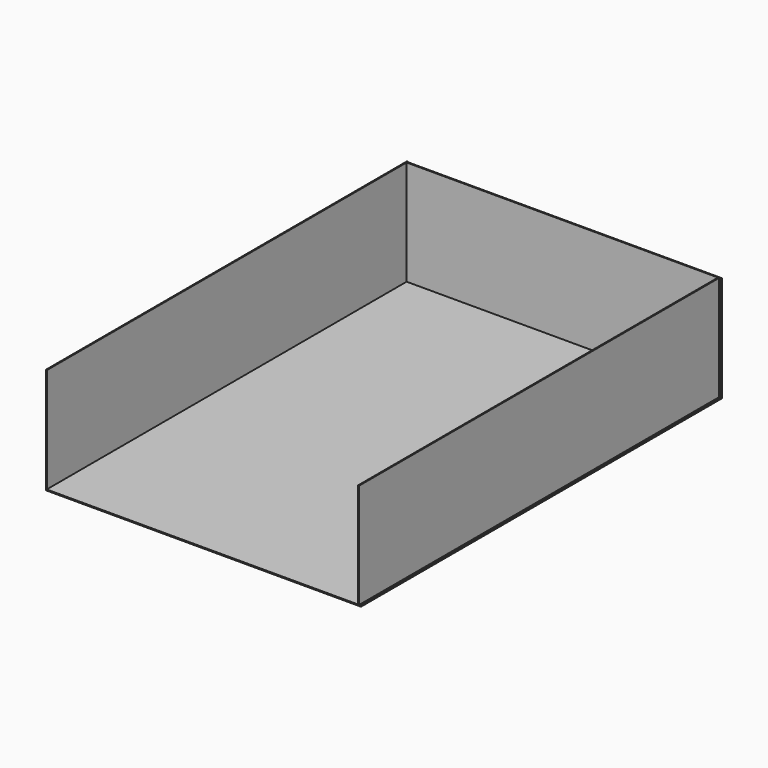
from build123d import *

# Parameters (mm, degrees)
F0_W     = 300
F0_H     = 430
F1_DEPTH = 1
F2_W     = 300
F2_H     = 1
F3_DEPTH = 100
F4_W     = 1
F4_H     = 430
F5_DEPTH = 100
F6_W     = 1
F6_H     = 430
F7_DEPTH = 100


with BuildPart() as f1:
    # F0 (on Top) → F1 (new body)
    with BuildSketch(Plane.XY):
        Rectangle(F0_W, F0_H)
    extrude(amount=-F1_DEPTH)

    # F2 (on Top) → F3 (join)
    with BuildSketch(Plane.XY):
        with Locations((0.038886, 214.259856)):
            Rectangle(F2_W, F2_H)
    extrude(amount=F3_DEPTH)

    # F4 (on Top) → F5 (join)
    with BuildSketch(Plane.XY):
        with Locations((147.787129, -0.097331)):
            Rectangle(F4_W, F4_H)
    extrude(amount=F5_DEPTH)

    # F6 (on Top) → F7 (join)
    with BuildSketch(Plane.XY):
        with Locations((-150.013192, 0.495426)):
            Rectangle(F6_W, F6_H)
    extrude(amount=F7_DEPTH)


solid = f1.part
